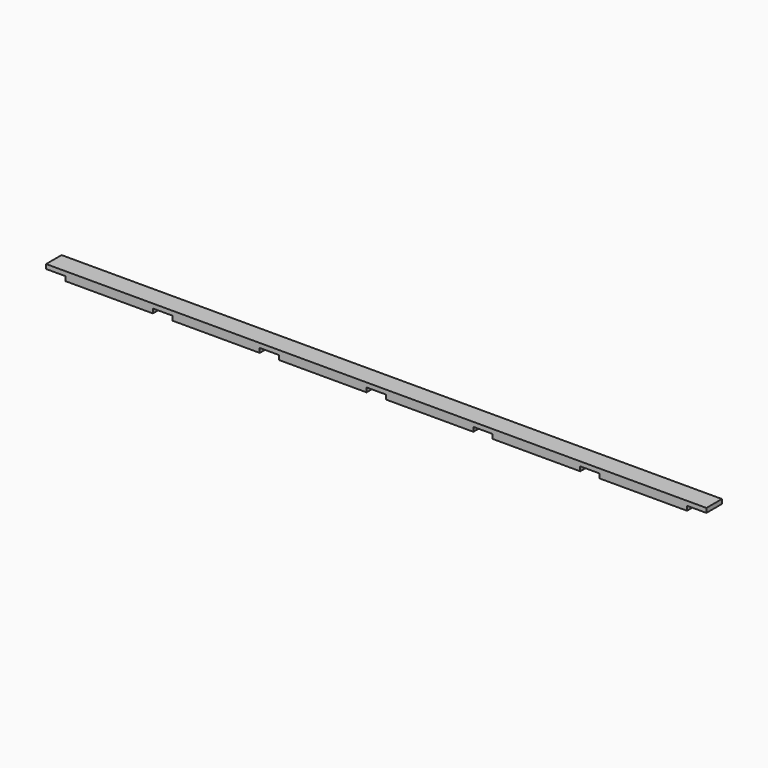
from build123d import *

# Parameters (mm, degrees)
F1_DEPTH = 32


with BuildPart() as f1:
    # F0 (on Front) → F1 (new body)
    with BuildSketch(Plane.XZ):
        Polygon((0, -7.25), (0, 0), (-1090, 0), (-1090, -7.25), (-1058, -7.25), (-1058, -14.5), (-913.7, -14.5), (-913.7, -7.25), (-881.7, -7.25), (-881.7, -14.5), (-737.3, -14.5), (-737.3, -7.25), (-705.3, -7.25), (-705.3, -14.5), (-561, -14.5), (-561, -7.25), (-529, -7.25), (-529, -14.5), (-384.7, -14.5), (-384.7, -7.25), (-352.7, -7.25), (-352.7, -14.5), (-208.3, -14.5), (-208.3, -7.25), (-176.3, -7.25), (-176.3, -14.5), (-32, -14.5), (-32, -7.25), align=None)
    extrude(amount=-F1_DEPTH)


solid = f1.part
